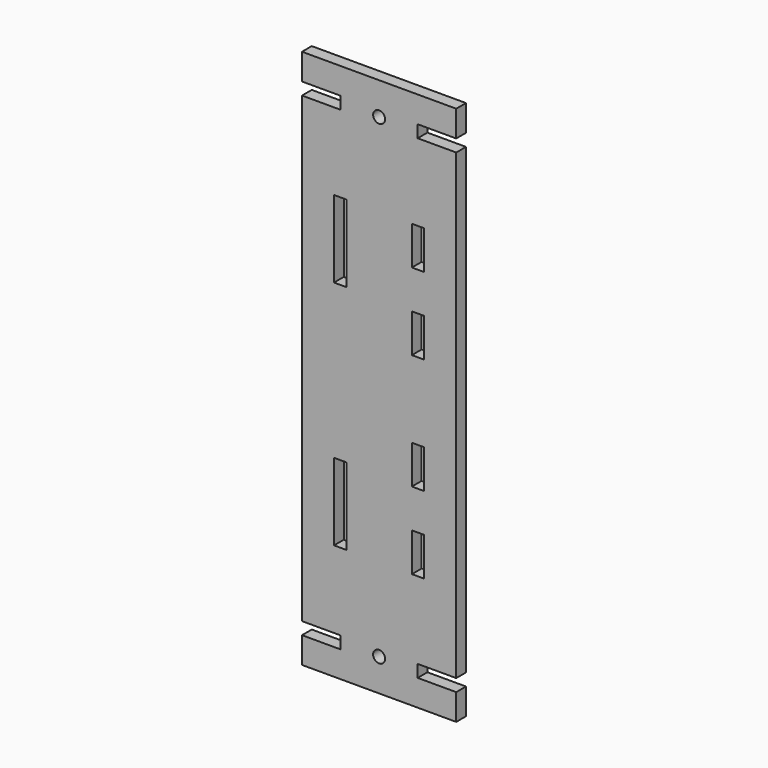
from build123d import *

# Parameters (mm, degrees)
F0_W     = 3.2
F0_H     = 20
F0_R     = 1.55
F0_H_2   = 10
F1_DEPTH = 1.585


with BuildPart() as f1:
    # F0 (on Front) → F1 (new body, symmetric)
    with BuildSketch(Plane.XZ):
        Polygon((20, -60), (20, 0), (20, 60), (10, 60), (10, 63.2), (20, 63.2), (20, 70), (0, 70), (-20, 70), (-20, 63.2), (-10, 63.2), (-10, 60), (-20, 60), (-20, 0), (-20, -60), (-10, -60), (-10, -63.2), (-20, -63.2), (-20, -70), (0, -70), (20, -70), (20, -63.2), (10, -63.2), (10, -60), align=None)
        with Locations((-10.1, -30)):
            Rectangle(F0_W, F0_H, mode=Mode.SUBTRACT)
        with Locations((0, -61.6)):
            Circle(F0_R, mode=Mode.SUBTRACT)
        with Locations((10.1, -35)):
            Rectangle(F0_W, F0_H_2, mode=Mode.SUBTRACT)
        with Locations((10.1, -15)):
            Rectangle(F0_W, F0_H_2, mode=Mode.SUBTRACT)
        with Locations((-10.1, 30)):
            Rectangle(F0_W, F0_H, mode=Mode.SUBTRACT)
        with Locations((10.1, 15)):
            Rectangle(F0_W, F0_H_2, mode=Mode.SUBTRACT)
        with Locations((0, 61.6)):
            Circle(F0_R, mode=Mode.SUBTRACT)
        with Locations((10.1, 35)):
            Rectangle(F0_W, F0_H_2, mode=Mode.SUBTRACT)
    extrude(amount=F1_DEPTH, both=True)


solid = f1.part
